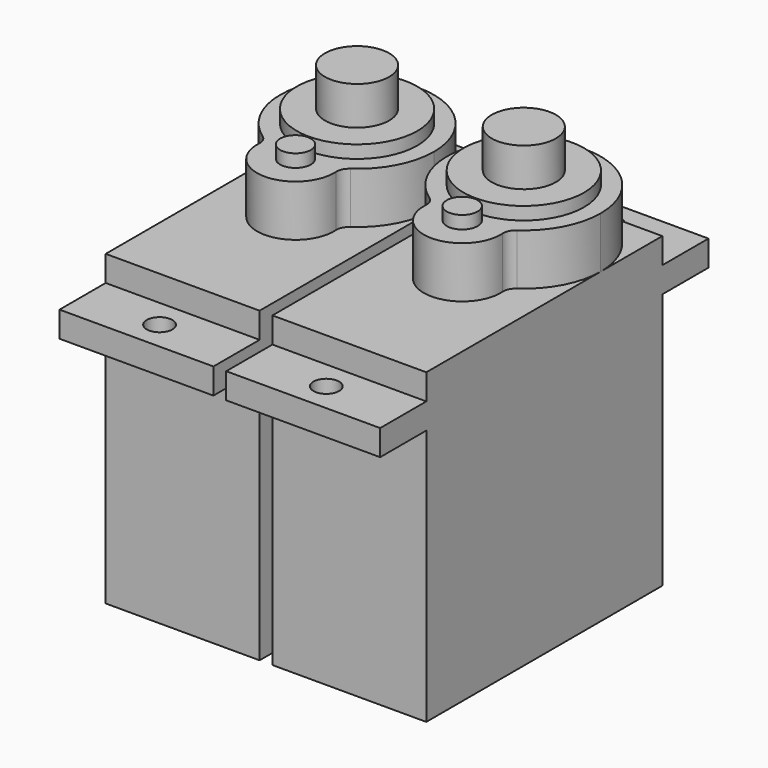
from build123d import *

# Parameters (mm, degrees)
F0_W      = 12
F0_H      = 23
F1_DEPTH  = 20
F2_W      = 12
F2_H      = 4.5
F3_DEPTH  = 2
F4_DEPTH  = 4
F6_DEPTH  = 4
F7_R      = 4.7
F7_R_2    = 1.2
F8_DEPTH  = 1
F9_R      = 1
F10_R     = 1
F11_DEPTH = 22.001
F12_R     = 2.5
F13_DEPTH = 3


with BuildPart() as f1:
    # F0 (on Top) → F1 (new body)
    with BuildSketch(Plane.XY):
        with Locations((6, 11.5)):
            Rectangle(F0_W, F0_H)
    extrude(amount=F1_DEPTH)

    # F2 (on face) → F3 (join)
    with BuildSketch(Plane.XY.offset(20)):
        with Locations((6, -2.25)):
            Rectangle(F2_W, F2_H)
        with Locations((6, 25.25)):
            Rectangle(F2_W, F2_H)
    extrude(amount=F3_DEPTH)

    # F4 (add): a face of the model
    f4_faces = [f1.faces().sort_by_distance(p)[0] for p in [
        (6, 11.5, 20),
    ]]
    extrude(f4_faces, amount=F4_DEPTH)

    # F5 (on face) → F6 (join)
    with BuildSketch(Plane.XY.offset(24)):
        with BuildLine():
            ThreePointArc((8.9941348918, 11.1875), (9.0920310584, 11.6855825328), (9.4218684477, 12.0714285714))
            ThreePointArc((9.4218684477, 12.0714285714), (11.3165407311, 14.2189220337), (12, 17.000000001))
            ThreePointArc((12, 17.000000001), (10.2426406868, 21.2426406875), (6, 23))
            ThreePointArc((6, 23), (1.7573593056, 21.2426406798), (0, 16.9999999793))
            ThreePointArc((0, 16.9999999793), (0.6834592739, 14.2189220241), (2.5781315523, 12.0714285714))
            ThreePointArc((2.5781315523, 12.0714285714), (2.9079689416, 11.6855825328), (3.0058651082, 11.1875))
            ThreePointArc((3.0058651082, 11.1875), (6, 8), (8.9941348918, 11.1875))
        make_face()
    extrude(amount=F6_DEPTH)

    # F7 (on face) → F8 (join)
    with BuildSketch(Plane.XY.offset(28)):
        with Locations((6, 17)):
            Circle(F7_R)
        with Locations((6, 11)):
            Circle(F7_R_2)
    extrude(amount=F8_DEPTH)

    # F9 (on face) + F10 (on face) → F11 (cut, through all)
    with BuildSketch(Plane.XY.offset(22)):
        with Locations((6, -2.25)):
            Circle(F9_R)
    with BuildSketch(Plane.XY.offset(22)):
        with Locations((6, 25.25)):
            Circle(F10_R)
    extrude(amount=-F11_DEPTH, mode=Mode.SUBTRACT)

    # F12 (on face) → F13 (join)
    with BuildSketch(Plane.XY.offset(29)):
        with Locations((6, 17)):
            Circle(F12_R)
    extrude(amount=F13_DEPTH)


with BuildPart() as f14_1:
    # F14: copy of F1
    add(f1.part.moved(Location((13, 0, 0))))


solid = Compound([f1.part, f14_1.part])
